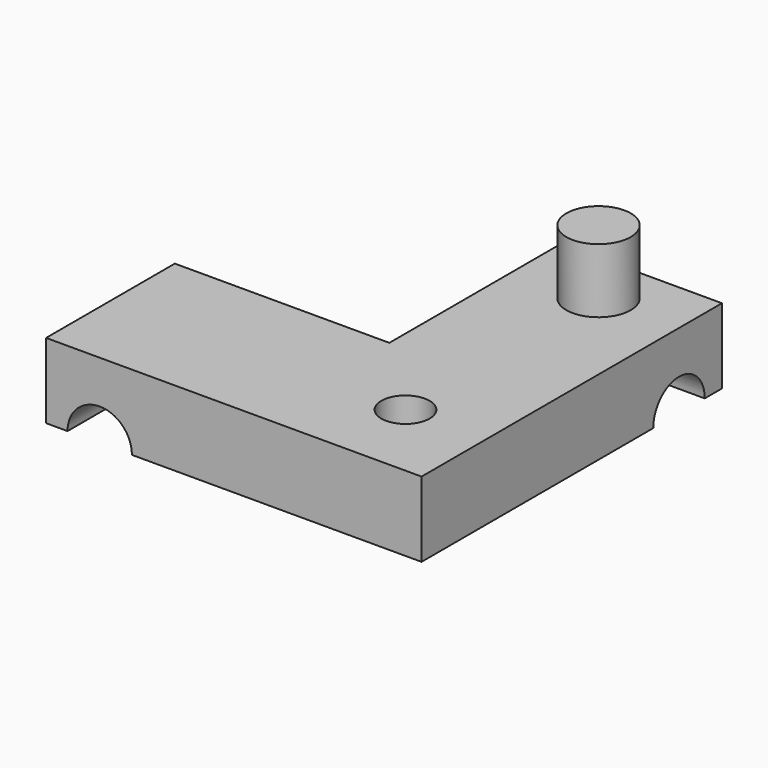
from build123d import *

# Parameters (mm, degrees)
SKETCH008_R     = 2.25
PAD005_DEPTH    = 7
SKETCH009_R     = 3
POCKET003_DEPTH = 30.001
SKETCH010_R     = 3
POCKET004_DEPTH = 30.001
SKETCH011_R     = 3
PAD006_DEPTH    = 6


with BuildPart() as part:
    # Sketch008 → Pad005 (new body)
    with BuildSketch(Plane.XY):
        Polygon((-5, -30), (-5, -15), (15, -15), (15, 5), (30, 5), (30, -30), align=None)
        with Locations((22.5, -22.5)):
            Circle(SKETCH008_R, mode=Mode.SUBTRACT)
    extrude(amount=PAD005_DEPTH)

    # Sketch009 → Pocket003 (cut, through all)
    with BuildSketch(Plane.XZ):
        Circle(SKETCH009_R)
    extrude(amount=POCKET003_DEPTH, mode=Mode.SUBTRACT)

    # Sketch010 → Pocket004 (cut, through all)
    with BuildSketch(Plane.YZ):
        Circle(SKETCH010_R)
    extrude(amount=POCKET004_DEPTH, mode=Mode.SUBTRACT)

    # Sketch011 → Pad006 (join)
    with BuildSketch(Plane.XY.offset(7)):
        with Locations((22.5, 0)):
            Circle(SKETCH011_R)
    extrude(amount=PAD006_DEPTH)


solid = part.part
